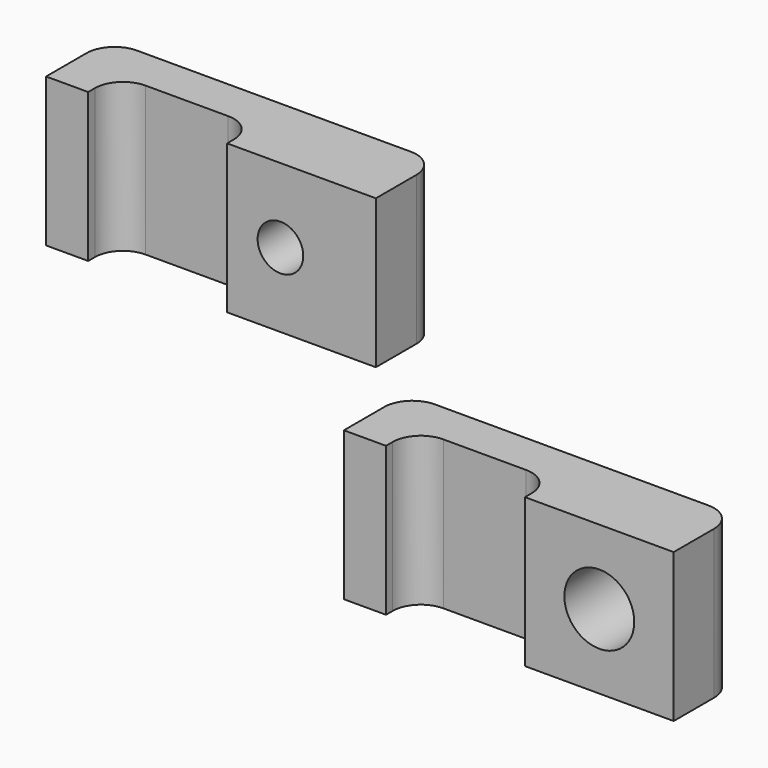
from build123d import *

# Parameters (mm, degrees)
F1_DEPTH = 10.6
F3_D     = 4.9784
F4_R     = 2
F6_DEPTH = 10.6
F8_D     = 3.2512
F9_R     = 2


with BuildPart() as f1:
    # F0 (on Top) → F1 (new body)
    with BuildSketch(Plane.XY):
        Polygon((0, 2.6), (0, 0), (10.6, 0), (10.6, 5.6), (-12.9, 5.6), (-12.9, 0), (-9.9, 0), (-9.9, 2.6), align=None)
    extrude(amount=F1_DEPTH)

    # F3 (through all)
    with Locations(Plane.XZ):
        with Locations((5.3, 5.3)):
            Hole(F3_D / 2)

    # F4
    f4_edges = [f1.edges().sort_by_distance(p)[0] for p in [
        (-9.9, 2.6, 5.3),
        (0, 2.6, 5.3),
        (-12.9, 5.6, 5.3),
        (10.6, 5.6, 5.3),
    ]]
    fillet(f4_edges, radius=F4_R)


with BuildPart() as f6:
    # F5 (on Top) → F6 (new body)
    with BuildSketch(Plane.XY):
        Polygon((-39.5750029802, 25.540386501), (-39.5750029802, 22.940386501), (-28.9750029802, 22.940386501), (-28.9750029802, 28.540386501), (-52.4750029802, 28.540386501), (-52.4750029802, 22.940386501), (-49.4750029802, 22.940386501), (-49.4750029802, 25.540386501), align=None)
    extrude(amount=F6_DEPTH)

    # F8 (through all)
    with Locations(Plane.XZ.offset(-22.940386501)):
        with Locations((-35.7750024021, 5.3)):
            Hole(F8_D / 2)

    # F9
    f9_edges = [f6.edges().sort_by_distance(p)[0] for p in [
        (-49.475003, 25.540387, 5.3),
        (-39.575003, 25.540387, 5.3),
        (-52.475003, 28.540387, 5.3),
        (-28.975003, 28.540387, 5.3),
    ]]
    fillet(f9_edges, radius=F9_R)


solid = Compound([f1.part, f6.part])
